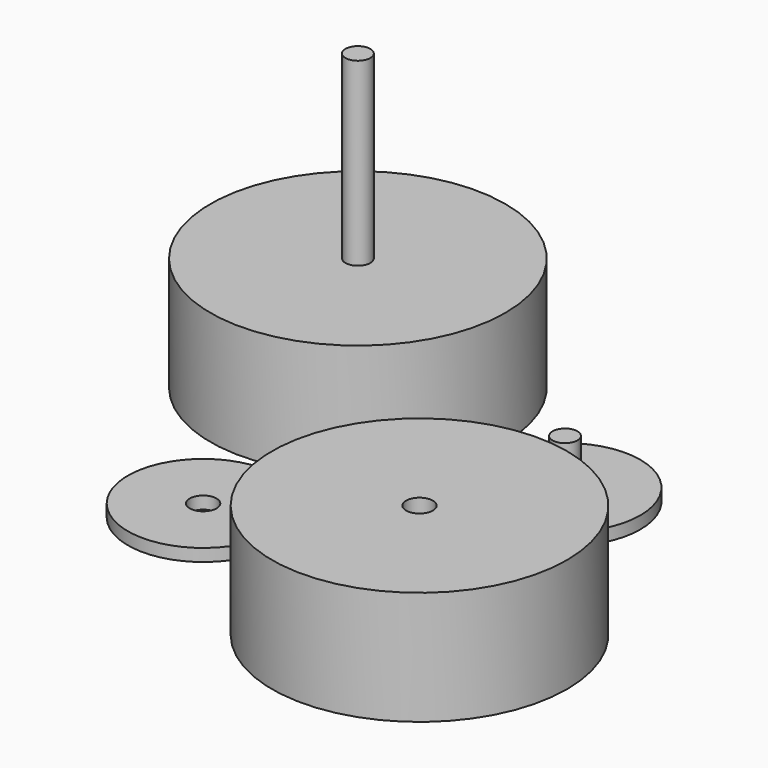
from build123d import *

# Parameters (mm, degrees)
F0_R     = 2.5
F1_DEPTH = 59.17
F0_R_2   = 29.675
F2_DEPTH = 22.87
F3_DEPTH = 11.66
F0_R_3   = 15.15
F4_DEPTH = 2.5
F5_DEPTH = 2.5
F6_DEPTH = 22.87
F7_D     = 5.4
F8_D     = 5.4


with BuildPart() as f1:
    # F0 (on Top) → F1 (new body)
    with BuildSketch(Plane.XY):
        with Locations((-30.1490310857, 30.088982854)):
            Circle(F0_R)
    extrude(amount=F1_DEPTH)

    # F0 (on Top) → F2 (join)
    with BuildSketch(Plane.XY):
        with Locations((-30.1490310857, 30.088982854)):
            Circle(F0_R_2)
        with Locations((-30.1490310857, 30.088982854)):
            Circle(F0_R, mode=Mode.SUBTRACT)
    extrude(amount=F2_DEPTH)


with BuildPart() as f3:
    # F0 (on Top) → F3 (new body)
    with BuildSketch(Plane.XY):
        with Locations((19.5096683294, 20.1035678638)):
            Circle(F0_R)
    extrude(amount=F3_DEPTH)

    # F0 (on Top) → F4 (join)
    with BuildSketch(Plane.XY):
        with Locations((19.5096683294, 20.1035678638)):
            Circle(F0_R_3)
        with Locations((19.5096683294, 20.1035678638)):
            Circle(F0_R, mode=Mode.SUBTRACT)
    extrude(amount=F4_DEPTH)


with BuildPart() as f5:
    # F0 (on Top) → F5 (new body)
    with BuildSketch(Plane.XY):
        with Locations((-21.5026963749, -19.6227214328)):
            Circle(F0_R_3)
    extrude(amount=F5_DEPTH)

    # F7 (through all)
    with Locations(Plane(origin=(0, 0, 0), x_dir=(1, 0, 0), z_dir=(0, 0, -1))):
        with Locations((-21.5026963749, 19.6227214328)):
            Hole(F7_D / 2)


with BuildPart() as f6:
    # F0 (on Top) → F6 (new body)
    with BuildSketch(Plane.XY):
        with Locations((29.9415523733, -29.5251703596)):
            Circle(F0_R_2)
    extrude(amount=F6_DEPTH)

    # F8 (through all)
    with Locations(Plane(origin=(0, 0, 0), x_dir=(1, 0, 0), z_dir=(0, 0, -1))):
        with Locations((29.9415523733, 29.5251703596)):
            Hole(F8_D / 2)


solid = Compound([f1.part, f3.part, f5.part, f6.part])
